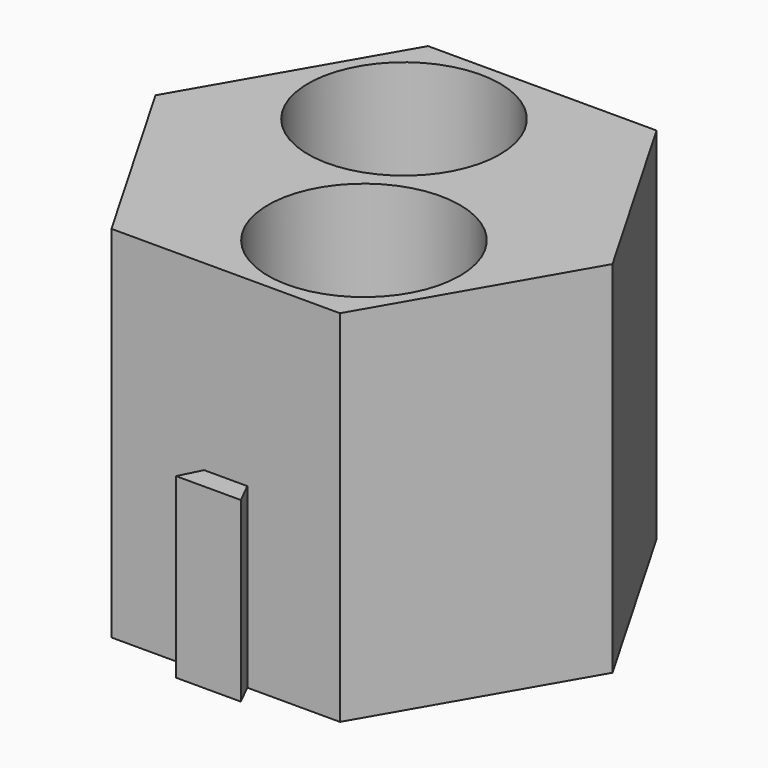
from build123d import *

# Parameters (mm, degrees)
F1_DEPTH = 38.1
F2_R     = 10.16
F3_DEPTH = 35.56
F5_DEPTH = 19.05
F7_DEPTH = 18.796


with BuildPart() as f1:
    # F0 (on Top) → F1 (new body)
    with BuildSketch(Plane.XY):
        Polygon((-12.0983748909, -20.955), (12.0983748909, -20.955), (24.1967497817, 0), (12.0983748909, 20.955), (-12.0983748909, 20.955), (-24.1967497817, 0), align=None)
    extrude(amount=F1_DEPTH)

    # F2 (on face) → F3 (cut)
    with BuildSketch(Plane.XY.offset(38.1)):
        with Locations((-5.499261314, 9.525)):
            Circle(F2_R)
        with Locations((5.499261314, -9.525)):
            Circle(F2_R)
    extrude(amount=-F3_DEPTH, mode=Mode.SUBTRACT)

    # F4 (on face) → F5 (cut)
    with BuildSketch(Plane(origin=(0, 0, 0), x_dir=(1, 0, 0), z_dir=(0, 0, -1))):
        Polygon((-15.9478578107, 9.2075), (-18.1475623363, 10.4775), (-19.4175623363, 8.2777954744), (-17.8528578107, 5.9079432116), align=None)
        Polygon((-16.8775623363, 12.6772045256), (-18.1475623363, 10.4775), (-15.9478578107, 9.2075), (-14.0428578107, 12.5070567884), align=None)
    extrude(amount=-F5_DEPTH, mode=Mode.SUBTRACT)

    # F6 (on face) → F7 (join)
    with BuildSketch(Plane(origin=(0, 0, 0), x_dir=(1, 0, 0), z_dir=(0, 0, -1))):
        Polygon((-2.286, 20.955), (0, 20.955), (0, 23.241), (-3.429, 23.241), align=None)
        Polygon((0, 23.241), (0, 20.955), (2.286, 20.955), (3.429, 23.241), align=None)
    extrude(amount=-F7_DEPTH)


solid = f1.part
